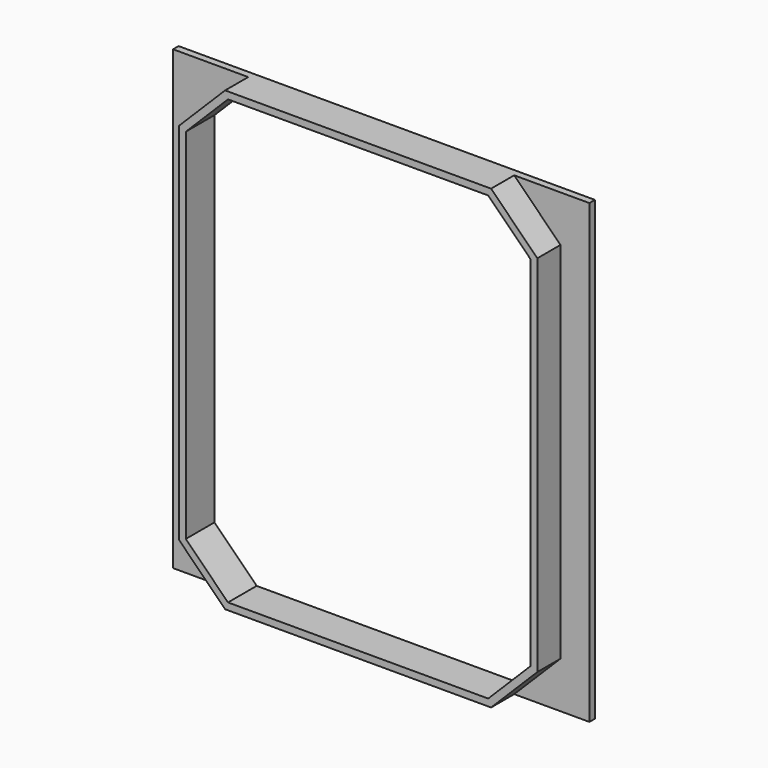
from build123d import *

# Parameters (mm, degrees)
F1_DEPTH = 6.35
F2_W     = 91.44
F2_H     = 100.33
F3_DEPTH = 1.524
F5_DEPTH = 5.334
F6_DEPTH = 6.35


with BuildPart() as f1:
    # F0 (on Front) → F1 (new body)
    with BuildSketch(Plane.XZ):
        Polygon((12.5022814354, 76.191857674), (-45.9177185646, 76.191857674), (-56.0777185646, 66.031857674), (-56.0777185646, -13.978142326), (-45.9177185646, -24.138142326), (12.5022814354, -24.138142326), (22.6622814354, -13.978142326), (22.6622814354, 66.031857674), align=None)
        Polygon((-54.5537185646, 65.4005962049), (-45.2864570956, 74.667857674), (11.8710199663, 74.667857674), (21.1382814354, 65.4005962049), (21.1382814354, -13.346880857), (11.8710199663, -22.614142326), (-45.2864570956, -22.614142326), (-54.5537185646, -13.346880857), align=None, mode=Mode.SUBTRACT)
    extrude(amount=F1_DEPTH)

    # F2 (on face) → F3 (join)
    with BuildSketch(Plane(origin=(0, 0, 0), x_dir=(-1, 0, 0), z_dir=(0, 1, 0))):
        with Locations((16.7077185646, 26.026857674)):
            Rectangle(F2_W, F2_H)
    extrude(amount=F3_DEPTH)

    # F4 (on face) → F5 (cut, symmetric)
    with BuildSketch(Plane.XZ):
        Polygon((11.8710199663, 74.667857674), (-45.2864570956, 74.667857674), (-54.5537185646, 65.4005962049), (-54.5537185646, -13.346880857), (-45.2864570956, -22.614142326), (11.8710199663, -22.614142326), (21.1382814354, -13.346880857), (21.1382814354, 65.4005962049), align=None)
    extrude(amount=F5_DEPTH, both=True, mode=Mode.SUBTRACT)

    # F0 (on Front) → F6 (join)
    with BuildSketch(Plane.XZ):
        Polygon((12.5022814354, 76.191857674), (-45.9177185646, 76.191857674), (-56.0777185646, 66.031857674), (-56.0777185646, -13.978142326), (-45.9177185646, -24.138142326), (12.5022814354, -24.138142326), (22.6622814354, -13.978142326), (22.6622814354, 66.031857674), align=None)
        Polygon((-54.5537185646, 65.4005962049), (-45.2864570956, 74.667857674), (11.8710199663, 74.667857674), (21.1382814354, 65.4005962049), (21.1382814354, -13.346880857), (11.8710199663, -22.614142326), (-45.2864570956, -22.614142326), (-54.5537185646, -13.346880857), align=None, mode=Mode.SUBTRACT)
    extrude(amount=F6_DEPTH)


solid = f1.part
